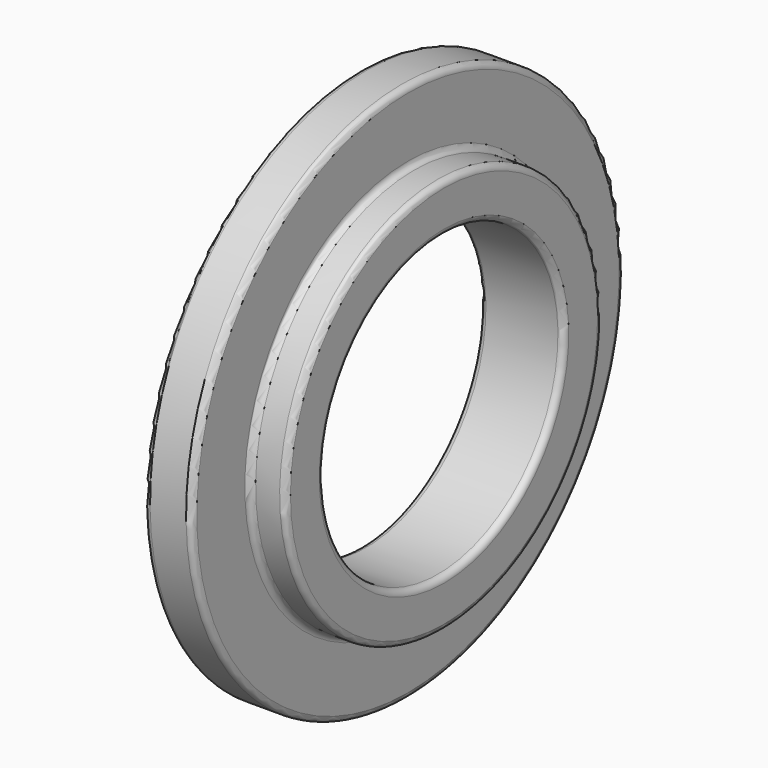
from build123d import *

# Parameters (mm, degrees)
F2_R = 0.5


with BuildPart() as f1:
    # F0 (on Front) → F1 (revolve)
    with BuildSketch(Plane.XZ):
        Polygon((0, 10), (0, 0), (7, 0), (7, 4), (4, 4), (4, 10), align=None)
    revolve(axis=Axis((3.1215194613, 0, -12.5), (1, 0, 0)))

    # F2
    f2_edges = [f1.edges().sort_by_distance(p)[0] for p in [
        (7, 0, -29),
        (7, 0, -25),
        (4, 0, -35),
        (0, 0, -35),
        (0, 0, -25),
        (4, 0, -29),
    ]]
    fillet(f2_edges, radius=F2_R)


solid = f1.part
